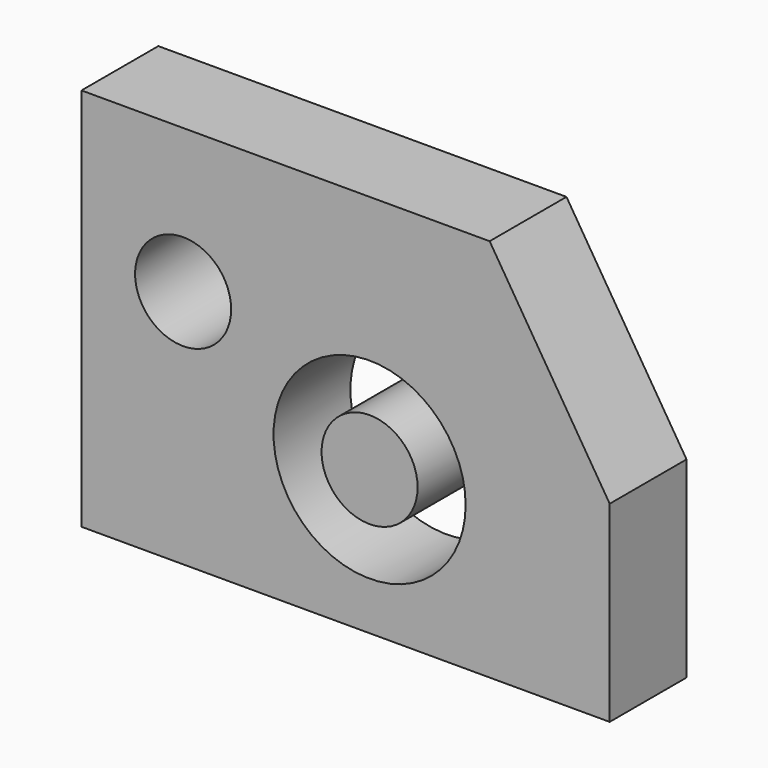
from build123d import *

# Parameters (mm, degrees)
F1_DEPTH = 25.4
F2_R     = 12.7
F2_R_2   = 25.4
F3_DEPTH = 25.4


with BuildPart() as f1:
    # F0 (on Front) → F1 (new body)
    with BuildSketch(Plane.XZ):
        Polygon((50.823184, 50.8), (-57.126816, 50.8), (-57.126816, -50.8), (82.573184, -50.8), (82.573184, 0), align=None)
    extrude(amount=F1_DEPTH)

    # F2 (on face) → F3 (cut)
    with BuildSketch(Plane.XZ.offset(25.4)):
        with Locations((-30.24558, 12.7)):
            Circle(F2_R)
        with Locations((19.073184, -12.7)):
            Circle(F2_R_2)
        with Locations((19.073184, -12.7)):
            Circle(F2_R, mode=Mode.SUBTRACT)
    extrude(amount=-F3_DEPTH, mode=Mode.SUBTRACT)


solid = f1.part
